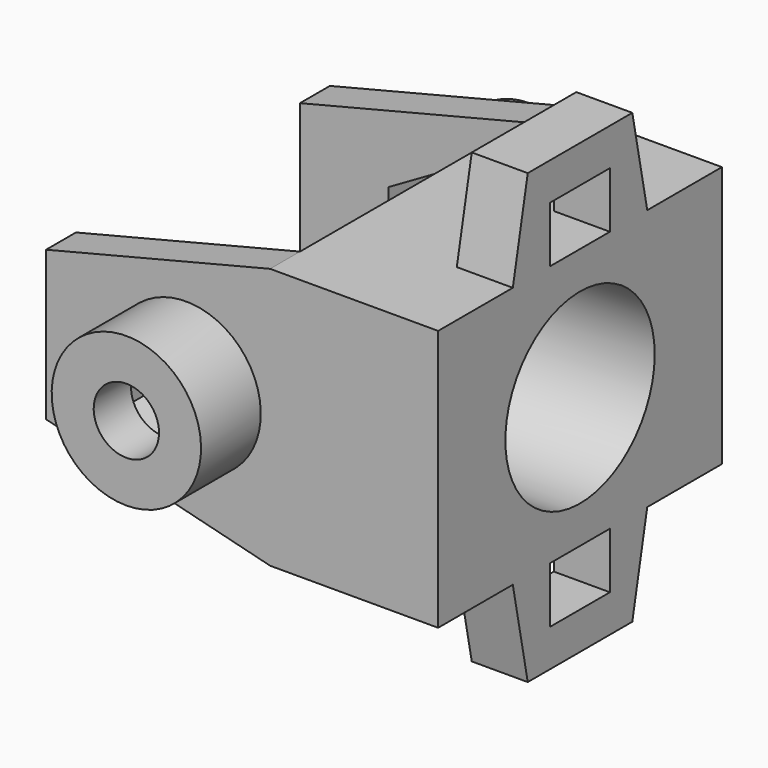
from build123d import *

# Parameters (mm, degrees)
SKETCH_W        = 19
SKETCH_H        = 14
PAD_DEPTH       = 9
SKETCH001_R     = 5
POCKET_DEPTH    = 9
SKETCH002_W     = 2
SKETCH002_H     = 14
PAD001_DEPTH    = 12
POCKET001_DEPTH = 19.001
SKETCH004_R     = 4
PAD002_DEPTH    = 4
SKETCH005_R     = 4
PAD003_DEPTH    = 4
SKETCH006_R     = 1.75
POCKET002_DEPTH = 27.001
POCKET003_DEPTH = 11
SKETCH008_W     = 4
SKETCH008_H     = 3
PAD004_DEPTH    = 3


with BuildPart() as part:
    # Sketch → Pad (new body)
    with BuildSketch(Plane.YZ):
        Rectangle(SKETCH_W, SKETCH_H)
    extrude(amount=PAD_DEPTH)

    # Sketch001 (on Face6 of Pad) → Pocket (cut)
    with BuildSketch(Plane.YZ.offset(9)):
        Circle(SKETCH001_R)
    extrude(amount=-POCKET_DEPTH, mode=Mode.SUBTRACT)

    # Sketch002 (on Face4 of Pocket) → Pad001 (join)
    with BuildSketch(Plane(origin=(0, 0, 0), x_dir=(0, 1, 0), z_dir=(-1, 0, 0))):
        with Locations((-8.5, 0)):
            Rectangle(SKETCH002_W, SKETCH002_H)
        with Locations((8.5, 0)):
            Rectangle(SKETCH002_W, SKETCH002_H)
    extrude(amount=PAD001_DEPTH)

    # Sketch003 (on Face9 of Pad001) → Pocket001 (cut, through all)
    with BuildSketch(Plane(origin=(0, -9.5, 0), x_dir=(0, 0, -1), z_dir=(0, -1, 0))):
        Polygon((-4, -12), (-7, -12), (-7, 0), align=None)
        Polygon((7, 0), (4, -12), (7, -12), align=None)
    extrude(amount=-POCKET001_DEPTH, mode=Mode.SUBTRACT)

    # Sketch004 (on Face2 of Pocket001) → Pad002 (join)
    with BuildSketch(Plane(origin=(0, -9.5, 0), x_dir=(0, 0, -1), z_dir=(0, -1, 0))):
        with Locations((0, -4.5)):
            Circle(SKETCH004_R)
    extrude(amount=PAD002_DEPTH)

    # Sketch005 (on Face3 of Pad002) → Pad003 (join)
    with BuildSketch(Plane.ZX.offset(9.5)):
        with Locations((0, -4.5)):
            Circle(SKETCH005_R)
    extrude(amount=PAD003_DEPTH)

    # Sketch006 (on Face21 of Pad003) → Pocket002 (cut, through all)
    with BuildSketch(Plane.ZX.offset(13.5)):
        with Locations((0, -4.5)):
            Circle(SKETCH006_R)
    extrude(amount=-POCKET002_DEPTH, mode=Mode.SUBTRACT)

    # Sketch007 → Pocket003 (cut, symmetric)
    with BuildSketch(Plane.XZ):
        Polygon((-1.75, -1.587713), (-1.75, 1.587713), (-4.5, 3.175426), (-7.25, 1.587713), (-7.25, -1.587713), (-4.5, -3.175426), align=None)
    extrude(amount=POCKET003_DEPTH, both=True, mode=Mode.SUBTRACT)

    # Sketch008 (on DatumPlane) → Pad004 (join)
    with BuildSketch(Plane.YZ.offset(9)):
        Polygon((-4.5, 7), (-3.5, 12), (3.5, 12), (4.5, 7), (4.5, 6), (-4.5, 6), align=None)
        with Locations((0, 8.5)):
            Rectangle(SKETCH008_W, SKETCH008_H, mode=Mode.SUBTRACT)
        Polygon((4.5, -7), (3.5, -12), (-3.5, -12), (-4.5, -7), (-4.5, -6), (4.5, -6), align=None)
        with Locations((0, -8.5)):
            Rectangle(SKETCH008_W, SKETCH008_H, mode=Mode.SUBTRACT)
    extrude(amount=-PAD004_DEPTH)


solid = part.part
